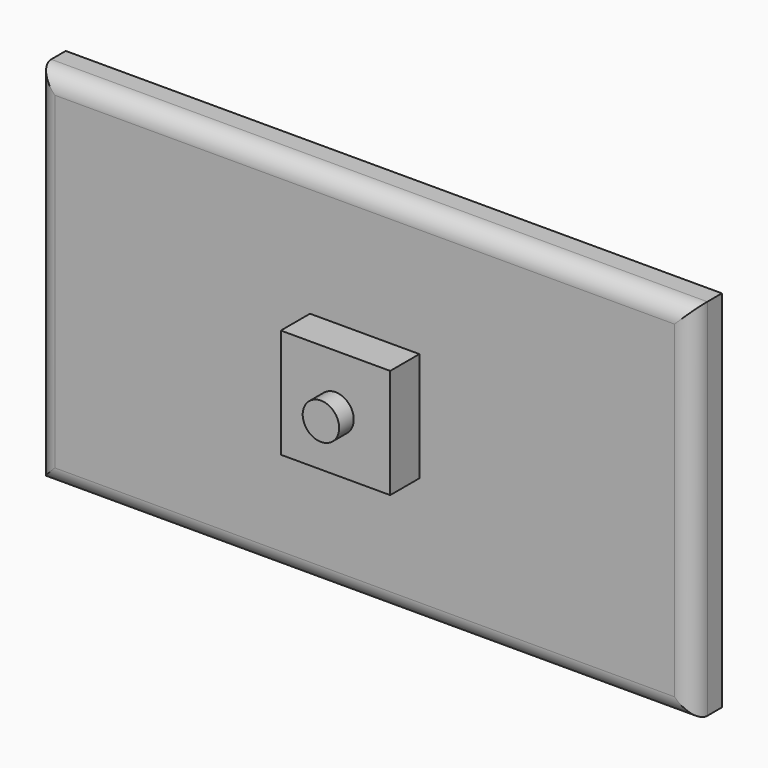
from build123d import *

# Parameters (mm, degrees)
F0_W     = 180
F0_H     = 100
F1_DEPTH = 10
F2_R     = 5
F3_W     = 30
F3_H     = 30
F4_DEPTH = 10
F5_R     = 5
F6_DEPTH = 5


with BuildPart() as f1:
    # F0 (on Front) → F1 (new body)
    with BuildSketch(Plane.XZ):
        Rectangle(F0_W, F0_H)
    extrude(amount=F1_DEPTH)

    # F2
    f2_edges = [f1.edges().sort_by_distance(p)[0] for p in [
        (0, -10, 50),
        (-90, -10, 0),
        (0, -10, -50),
        (90, -10, 0),
    ]]
    fillet(f2_edges, radius=F2_R)

    # F3 (on face) → F4 (join)
    with BuildSketch(Plane.XZ.offset(10)):
        Rectangle(F3_W, F3_H)
    extrude(amount=F4_DEPTH)

    # F5 (on face) → F6 (join)
    with BuildSketch(Plane.XZ.offset(20)):
        Circle(F5_R)
    extrude(amount=F6_DEPTH)


solid = f1.part
